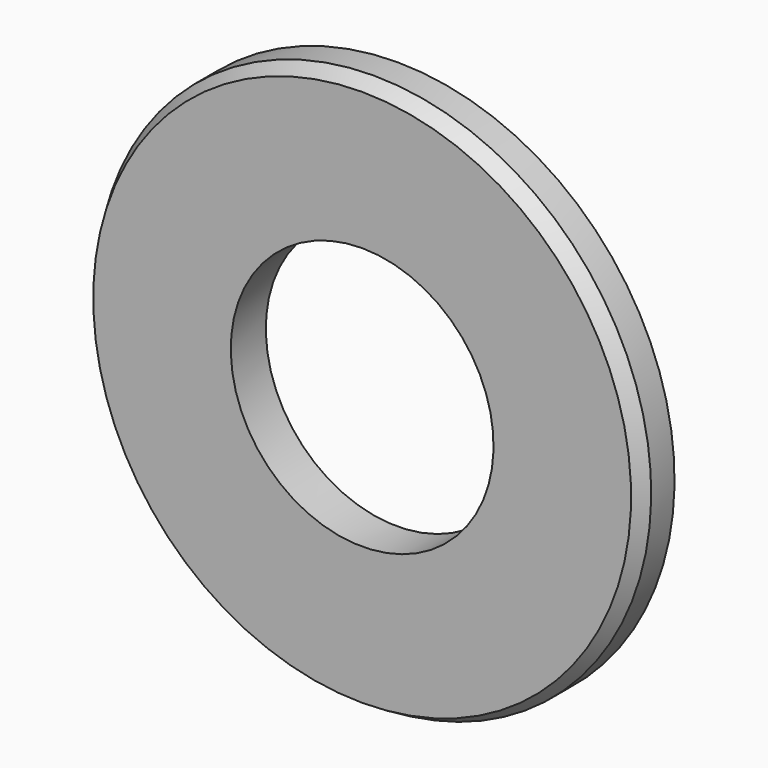
from build123d import *


with BuildPart() as f1:
    # F0 (on Right) → F1 (revolve)
    with BuildSketch(Plane.YZ):
        Polygon((-0.396875, 15.08125), (-1.190625, 14.622978), (-1.190625, 7.14375), (1.190625, 7.14375), (1.190625, 15.08125), align=None)
    revolve(axis=Axis((0, 0.197977, 0), (0, 1, 0)))


solid = f1.part
